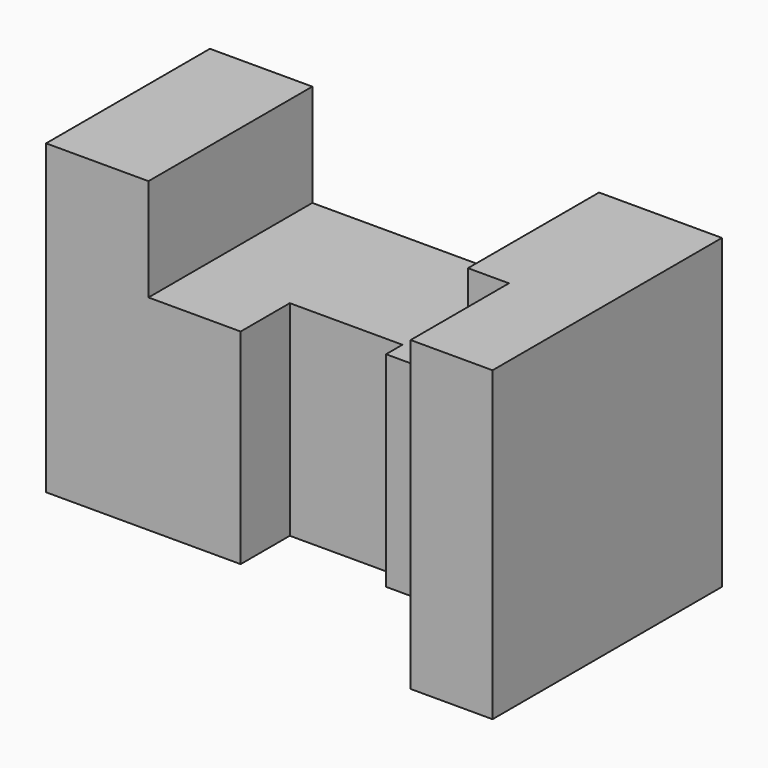
from build123d import *

# Parameters (mm, degrees)
F0_W     = 125
F0_H     = 75
F1_DEPTH = 35
F3_DEPTH = 75.001
F4_W     = 70
F4_H     = 25
F5_DEPTH = 70.001


with BuildPart() as f1:
    # F0 (on Front) → F1 (new body, symmetric)
    with BuildSketch(Plane.XZ):
        with Locations((0, 37.5)):
            Rectangle(F0_W, F0_H)
    extrude(amount=F1_DEPTH, both=True)

    # F2 (on face) → F3 (cut, through all)
    with BuildSketch(Plane.XY.offset(75)):
        Polygon((-62.5, -15), (-62.5, -35), (42.5, -35), (42.5, -5), (12.5, -5), (12.5, 0), (-15, 0), (-15, -15), align=None)
    extrude(amount=-F3_DEPTH, mode=Mode.SUBTRACT)

    # F4 (on face) → F5 (cut, through all)
    with BuildSketch(Plane(origin=(0, 35, 0), x_dir=(-1, 0, 0), z_dir=(0, 1, 0))):
        with Locations((2.5, 62.5)):
            Rectangle(F4_W, F4_H)
    extrude(amount=-F5_DEPTH, mode=Mode.SUBTRACT)


solid = f1.part
